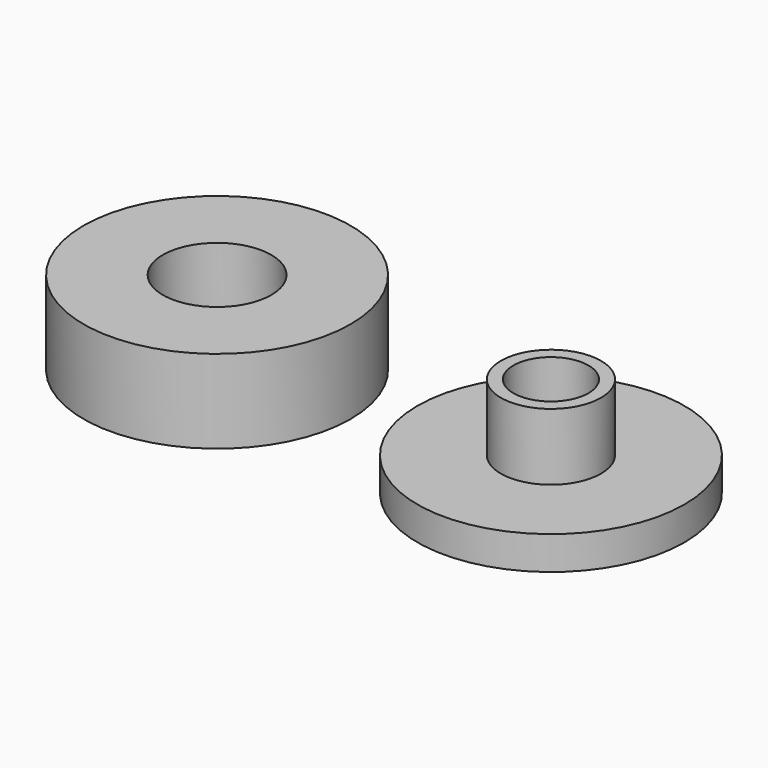
from build123d import *

# Parameters (mm, degrees)
CYLINDER002_R     = 3.25
CYLINDER002_DEPTH = 5
CYLINDER001_R     = 2.25
CYLINDER001_DEPTH = 9
CYLINDER_R        = 8
CYLINDER_DEPTH    = 5
CYLINDER004_R     = 2.25
CYLINDER004_DEPTH = 10
CYLINDER005_R     = 8
CYLINDER005_DEPTH = 2
CYLINDER003_R     = 3
CYLINDER003_DEPTH = 6


with BuildPart() as cylinder002:
    # Cylinder002 → Cylinder002 (new body)
    with BuildSketch(Plane.XY.offset(1)):
        Circle(CYLINDER002_R)
    extrude(amount=CYLINDER002_DEPTH)


with BuildPart() as fusion:
    # Cylinder001 → Cylinder001 (new body)
    with BuildSketch(Plane.XY.offset(-0.5)):
        Circle(CYLINDER001_R)
    extrude(amount=CYLINDER001_DEPTH)

    # Fusion: union Cylinder002
    add(cylinder002.part)


with BuildPart() as body:
    # Cylinder → Cylinder (new body)
    with BuildSketch(Plane.XY):
        Circle(CYLINDER_R)
    extrude(amount=CYLINDER_DEPTH)

    # Cut: cut Fusion
    add(fusion.part, mode=Mode.SUBTRACT)


with BuildPart() as cylinder004:
    # Cylinder004 → Cylinder004 (new body)
    with BuildSketch(Plane(origin=(20, 0, 0), x_dir=(1, 0, 0), z_dir=(0, 0, 1))):
        Circle(CYLINDER004_R)
    extrude(amount=CYLINDER004_DEPTH)


with BuildPart() as cylinder005:
    # Cylinder005 → Cylinder005 (new body)
    with BuildSketch(Plane(origin=(20, 0, 0), x_dir=(1, 0, 0), z_dir=(0, 0, 1))):
        Circle(CYLINDER005_R)
    extrude(amount=CYLINDER005_DEPTH)


with BuildPart() as cap:
    # Cylinder003 → Cylinder003 (new body)
    with BuildSketch(Plane(origin=(20, 0, 0), x_dir=(1, 0, 0), z_dir=(0, 0, 1))):
        Circle(CYLINDER003_R)
    extrude(amount=CYLINDER003_DEPTH)

    # Fusion001: union Cylinder005
    add(cylinder005.part)

    # Cut001: cut Cylinder004
    add(cylinder004.part, mode=Mode.SUBTRACT)


solid = Compound([body.part, cap.part])
